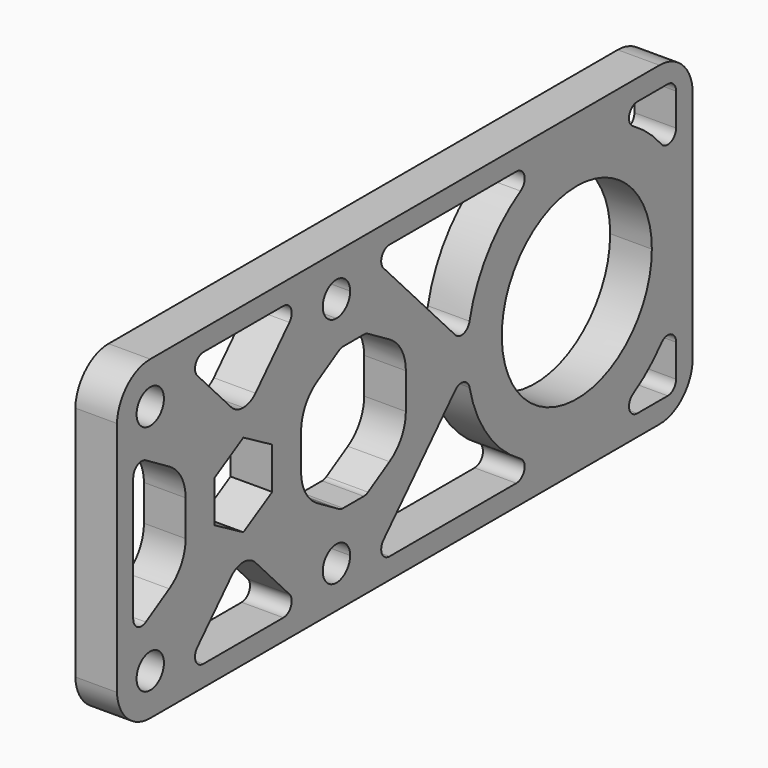
from build123d import *

# Parameters (mm, degrees)
F0_R     = 2.6035
F1_DEPTH = 6.35


with BuildPart() as f1:
    # F0 (on Right) → F1 (new body)
    with BuildSketch(Plane.YZ):
        with BuildLine():
            Line((-24.071991, 17.426708), (-24.071991, -17.426708))
            Line((-24.071991, -17.426708), (-24.071991, -18.031692))
            ThreePointArc((-24.071991, -18.031692), (-22.111076, -22.325031), (-17.7292, -24.0792))
            Line((-17.7292, -24.0792), (17.7292, -24.0792))
            Line((17.7292, -24.0792), (79.226878, -24.0792))
            ThreePointArc((79.226878, -24.0792), (83.717007, -22.219328), (85.576878, -17.7292))
            Line((85.576878, -17.7292), (85.576878, 17.7292))
            ThreePointArc((85.576878, 17.7292), (83.717007, 22.219328), (79.226878, 24.0792))
            Line((79.226878, 24.0792), (17.7292, 24.0792))
            Line((17.7292, 24.0792), (-17.7292, 24.0792))
            ThreePointArc((-17.7292, 24.0792), (-22.111076, 22.325031), (-24.071991, 18.031692))
            Line((-24.071991, 18.031692), (-24.071991, 17.426708))
        make_face()
        with Locations((-17.7292, -17.7292)):
            Circle(F0_R, mode=Mode.SUBTRACT)
        with BuildLine():
            ThreePointArc((0, -10.363654), (1.259078, -10.623975), (2.311689, -11.362253))
            Line((2.311689, -11.362253), (8.776098, -18.2285))
            ThreePointArc((8.776098, -18.2285), (9.077593, -19.946239), (7.620254, -20.9042))
            Line((7.620254, -20.9042), (0, -20.9042))
            Line((0, -20.9042), (-7.620254, -20.9042))
            ThreePointArc((-7.620254, -20.9042), (-9.077593, -19.946239), (-8.776098, -18.2285))
            Line((-8.776098, -18.2285), (-2.311689, -11.362253))
            ThreePointArc((-2.311689, -11.362253), (-1.259078, -10.623975), (0, -10.363654))
        make_face(mode=Mode.SUBTRACT)
        with BuildLine():
            ThreePointArc((20.3327, -17.7292), (15.888247, -19.570153), (17.7292, -15.1257))
            ThreePointArc((17.7292, -15.1257), (19.570153, -15.888247), (20.3327, -17.7292))
        make_face(mode=Mode.SUBTRACT)
        with BuildLine():
            Line((51.978643, -20.9042), (27.838146, -20.9042))
            ThreePointArc((27.838146, -20.9042), (26.380807, -19.946239), (26.682302, -18.2285))
            Line((26.682302, -18.2285), (40.366631, -3.693533))
            ThreePointArc((40.366631, -3.693533), (41.946698, -3.251965), (43.073684, -4.444231))
            ThreePointArc((43.073684, -4.444231), (46.530538, -12.207495), (52.791839, -17.953297))
            ThreePointArc((52.791839, -17.953297), (53.509094, -19.738454), (51.978643, -20.9042))
        make_face(mode=Mode.SUBTRACT)
        with BuildLine():
            ThreePointArc((75.021357, -20.9042), (73.490906, -19.738454), (74.208161, -17.953297))
            ThreePointArc((74.208161, -17.953297), (77.097094, -15.877802), (79.592302, -13.342541))
            ThreePointArc((79.592302, -13.342541), (81.352946, -12.862443), (82.401878, -14.355796))
            Line((82.401878, -14.355796), (82.401878, -19.3167))
            ThreePointArc((82.401878, -19.3167), (81.93691, -20.439232), (80.814378, -20.9042))
            Line((80.814378, -20.9042), (75.021357, -20.9042))
        make_face(mode=Mode.SUBTRACT)
        with BuildLine():
            Line((-10.998523, 2.734687), (-10.998523, -2.734687))
            ThreePointArc((-10.998523, -2.734687), (-11.830222, -5.87648), (-14.107455, -8.195271))
            Line((-14.107455, -8.195271), (-18.572501, -10.845448))
            ThreePointArc((-18.572501, -10.845448), (-20.168216, -10.859878), (-20.970268, -9.480302))
            Line((-20.970268, -9.480302), (-20.970268, 9.480302))
            ThreePointArc((-20.970268, 9.480302), (-20.168216, 10.859878), (-18.572501, 10.845448))
            Line((-18.572501, 10.845448), (-14.107455, 8.195271))
            ThreePointArc((-14.107455, 8.195271), (-11.830222, 5.87648), (-10.998523, 2.734687))
        make_face(mode=Mode.SUBTRACT)
        with Locations((-17.7292, 17.7292)):
            Circle(F0_R, mode=Mode.SUBTRACT)
        Polygon((-5.499261, 3.175), (0, 6.35), (5.499261, 3.175), (5.499261, -3.175), (0, -6.35), (-5.499261, -3.175), align=None, mode=Mode.SUBTRACT)
        with BuildLine():
            Line((14.107455, 8.195271), (17.7292, 10.344917))
            Line((17.7292, 10.344917), (18.197877, 10.623095))
            ThreePointArc((18.197877, 10.623095), (18.588032, 10.788851), (19.008143, 10.845448))
            Line((19.008143, 10.845448), (22.932392, 10.845448))
            ThreePointArc((22.932392, 10.845448), (23.352503, 10.788851), (23.742659, 10.623095))
            Line((23.742659, 10.623095), (27.83308, 8.195271))
            ThreePointArc((27.83308, 8.195271), (30.110313, 5.87648), (30.942013, 2.734687))
            Line((30.942013, 2.734687), (30.942013, -2.734687))
            ThreePointArc((30.942013, -2.734687), (30.110313, -5.87648), (27.83308, -8.195271))
            Line((27.83308, -8.195271), (23.742659, -10.623095))
            ThreePointArc((23.742659, -10.623095), (23.352503, -10.788851), (22.932392, -10.845448))
            Line((22.932392, -10.845448), (19.008143, -10.845448))
            ThreePointArc((19.008143, -10.845448), (18.588032, -10.788851), (18.197877, -10.623095))
            Line((18.197877, -10.623095), (17.7292, -10.344917))
            Line((17.7292, -10.344917), (14.107455, -8.195271))
            ThreePointArc((14.107455, -8.195271), (11.830222, -5.87648), (10.998523, -2.734687))
            Line((10.998523, -2.734687), (10.998523, 2.734687))
            ThreePointArc((10.998523, 2.734687), (11.830222, 5.87648), (14.107455, 8.195271))
        make_face(mode=Mode.SUBTRACT)
        with BuildLine():
            ThreePointArc((0, 10.363654), (-1.259078, 10.623975), (-2.311689, 11.362253))
            Line((-2.311689, 11.362253), (-8.776098, 18.2285))
            ThreePointArc((-8.776098, 18.2285), (-9.077593, 19.946239), (-7.620254, 20.9042))
            Line((-7.620254, 20.9042), (0, 20.9042))
            Line((0, 20.9042), (7.620254, 20.9042))
            ThreePointArc((7.620254, 20.9042), (9.077593, 19.946239), (8.776098, 18.2285))
            Line((8.776098, 18.2285), (2.311689, 11.362253))
            ThreePointArc((2.311689, 11.362253), (1.259078, 10.623975), (0, 10.363654))
        make_face(mode=Mode.SUBTRACT)
        with BuildLine():
            ThreePointArc((17.7292, 15.1257), (15.888247, 19.570153), (20.3327, 17.7292))
            ThreePointArc((20.3327, 17.7292), (19.570153, 15.888247), (17.7292, 15.1257))
        make_face(mode=Mode.SUBTRACT)
        with BuildLine():
            ThreePointArc((52.791839, 17.953297), (46.530538, 12.207495), (43.073684, 4.444231))
            ThreePointArc((43.073684, 4.444231), (41.946698, 3.251965), (40.366631, 3.693533))
            Line((40.366631, 3.693533), (26.682302, 18.2285))
            ThreePointArc((26.682302, 18.2285), (26.380807, 19.946239), (27.838146, 20.9042))
            Line((27.838146, 20.9042), (51.978643, 20.9042))
            ThreePointArc((51.978643, 20.9042), (53.509094, 19.738454), (52.791839, 17.953297))
        make_face(mode=Mode.SUBTRACT)
        with BuildLine():
            ThreePointArc((63.5, 14.2875), (73.602788, 10.102788), (77.7875, 0))
            ThreePointArc((77.7875, 0), (53.397212, -10.102788), (63.5, 14.2875))
        make_face(mode=Mode.SUBTRACT)
        with BuildLine():
            ThreePointArc((74.208161, 17.953297), (73.490906, 19.738454), (75.021357, 20.9042))
            Line((75.021357, 20.9042), (80.814378, 20.9042))
            ThreePointArc((80.814378, 20.9042), (81.93691, 20.439232), (82.401878, 19.3167))
            Line((82.401878, 19.3167), (82.401878, 14.355796))
            ThreePointArc((82.401878, 14.355796), (81.352946, 12.862443), (79.592302, 13.342541))
            ThreePointArc((79.592302, 13.342541), (77.097094, 15.877802), (74.208161, 17.953297))
        make_face(mode=Mode.SUBTRACT)
    extrude(amount=F1_DEPTH)


solid = f1.part
